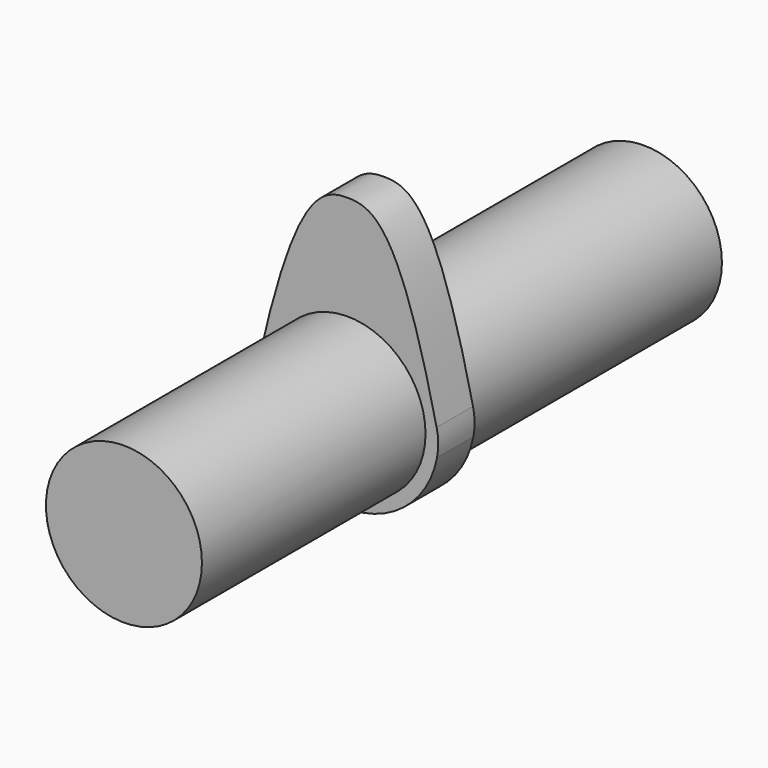
from build123d import *

# Parameters (mm, degrees)
F0_R          = 12
F1_DEPTH      = 50
F1_DEPTH_BACK = 50
F2_DEPTH      = 7


with BuildPart() as f1:
    # F0 (on Front) → F1 (new body, two sides)
    with BuildSketch(Plane.XZ) as f1_sk:
        Circle(F0_R)
    extrude(amount=F1_DEPTH)
    extrude(f1_sk.sketch, amount=-F1_DEPTH_BACK)

    # F0 (on Front) → F2 (join)
    with BuildSketch(Plane.XZ):
        with BuildLine():
            ThreePointArc((-13.708586, 1.426163), (-13.950516, -0.616734), (-13.769298, -2.665908))
            ThreePointArc((-13.769298, -2.665908), (0, -14.025), (13.769298, -2.665908))
            ThreePointArc((13.769298, -2.665908), (13.950516, -0.616734), (13.708586, 1.426163))
            add(Edge.make_bspline(
                [(-13.708586, 1.426163), (-8.097984, 26.40852), (0, 29.74148), (8.097984, 26.40852), (13.708586, 1.426163)],
                knots=[0.576113, 0.576113, 0.576113, 0.576113, 31.383216, 62.190319, 62.190319, 62.190319, 62.190319], degree=3))
        make_face()
        Circle(F0_R, mode=Mode.SUBTRACT)
    extrude(amount=F2_DEPTH)


solid = f1.part
